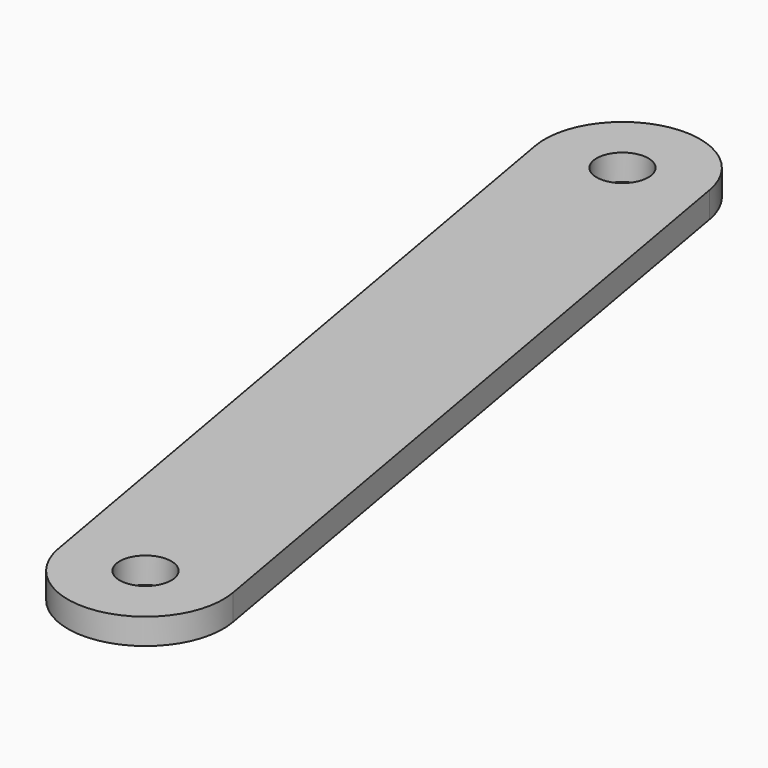
from build123d import *

# Parameters (mm, degrees)
SKETCH_R  = 1
PAD_DEPTH = 1


with BuildPart() as part:
    # Sketch → Pad (new body)
    with BuildSketch(Plane.XY):
        with BuildLine():
            ThreePointArc((-2.255022, 30.065177), (-5.73039, 32.498656), (-8.163869, 29.023288))
            Line((-8.163869, 29.023288), (-2.954423, -0.520945))
            ThreePointArc((-2.954423, -0.520945), (0.520945, -2.954423), (2.954423, 0.520945))
            Line((-2.255022, 30.065177), (2.954423, 0.520945))
        make_face()
        with Locations((-5.209445, 29.544233)):
            Circle(SKETCH_R, mode=Mode.SUBTRACT)
        Circle(SKETCH_R, mode=Mode.SUBTRACT)
    extrude(amount=PAD_DEPTH)


solid = part.part
